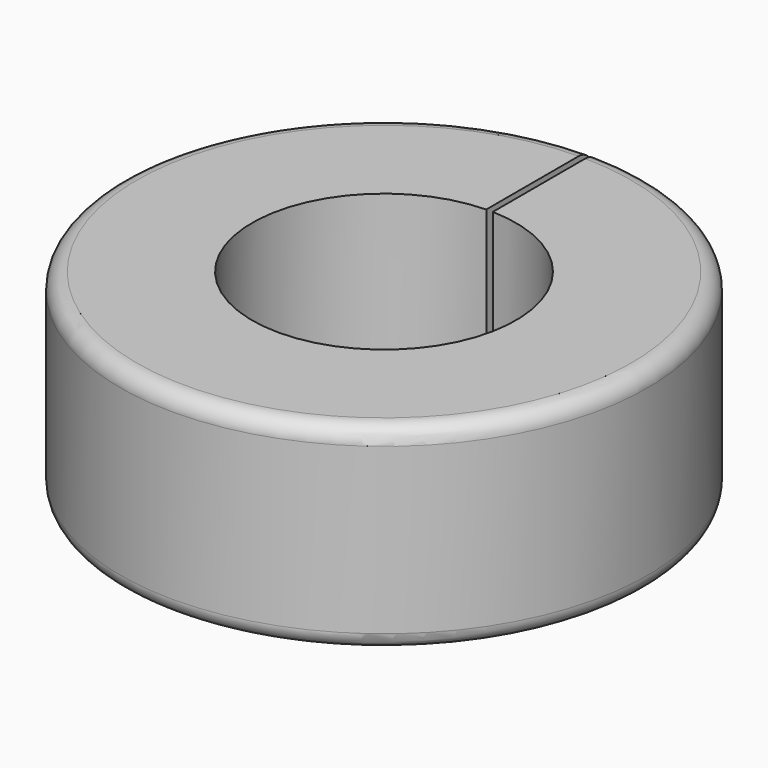
from build123d import *

# Parameters (mm, degrees)
F1_DEPTH = 6
F2_R     = 0.5


with BuildPart() as f1:
    # F0 (on Top) → F1 (new body)
    with BuildSketch(Plane.XY):
        with BuildLine():
            Line((-0.099013, 3.998774), (-0.099013, 7.998774))
            ThreePointArc((-0.099013, 7.998774), (0, -7.999387), (0.099013, 7.998774))
            Line((0.099013, 7.998774), (0.099013, 3.998774))
            ThreePointArc((0.099013, 3.998774), (0, -4), (-0.099013, 3.998774))
        make_face()
    extrude(amount=-F1_DEPTH)

    # F2
    f2_edges = [f1.edges().sort_by_distance(p)[0] for p in [
        (0, -7.999387, 0),
        (0, -7.999387, -6),
    ]]
    fillet(f2_edges, radius=F2_R)


solid = f1.part
